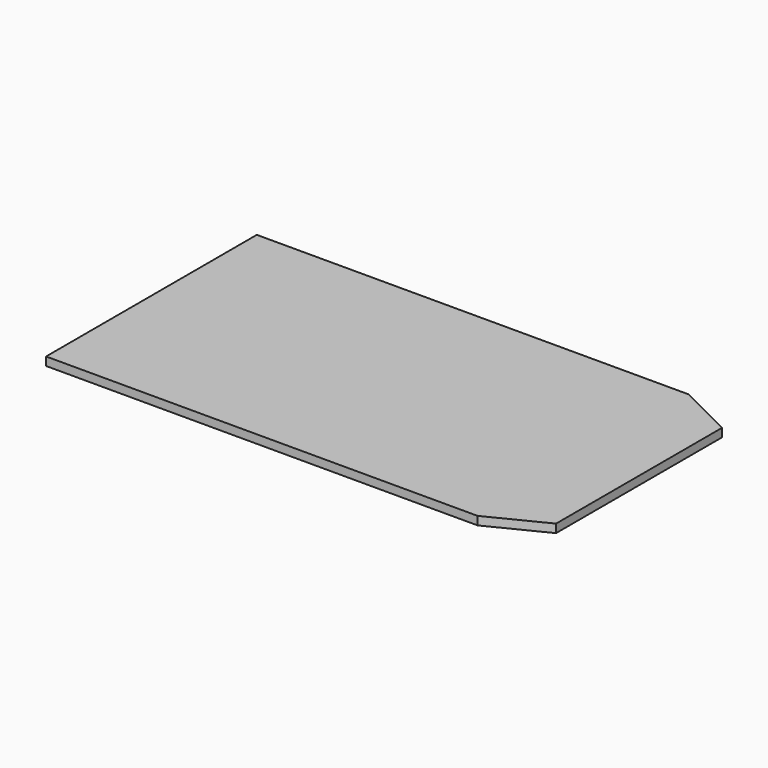
from build123d import *

# Parameters (mm, degrees)
PAD_DEPTH = 3


with BuildPart() as part:
    # Sketch → Pad (new body)
    with BuildSketch(Plane.XY):
        Polygon((-26, 47), (-26, -47), (128, -47), (148, -37), (148, 37), (128, 47), align=None)
    extrude(amount=PAD_DEPTH)


solid = part.part
